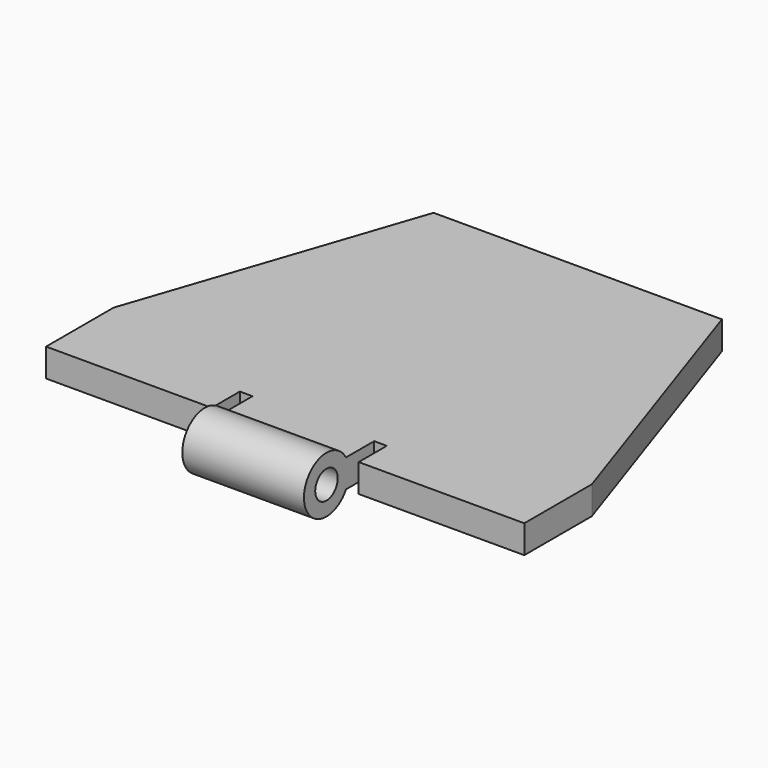
from build123d import *

# Parameters (mm, degrees)
F1_DEPTH      = 2
F2_R          = 2
F2_R_2        = 1
F3_DEPTH      = 4.325
F3_DEPTH_BACK = 4.325
F4_W          = 0.9
F4_H          = 2.5
F5_DEPTH      = 3.00062


with BuildPart() as f1:
    # F0 (on Top) → F1 (new body)
    with BuildSketch(Plane.XY):
        Polygon((0, 18.958714), (17, 18.958714), (17, 24.958714), (10.25, 44.958714), (0, 44.958714), (-10.25, 44.958714), (-17, 24.958714), (-17, 18.958714), align=None)
    extrude(amount=F1_DEPTH)

    # F2 (on Right) → F3 (join, two sides)
    with BuildSketch(Plane.YZ) as f3_sk:
        with Locations((17.221542, 1.00038)):
            Circle(F2_R)
        with Locations((17.221542, 1.00038)):
            Circle(F2_R_2, mode=Mode.SUBTRACT)
    extrude(amount=F3_DEPTH)
    extrude(f3_sk.sketch, amount=-F3_DEPTH_BACK)

    # F4 (on face) → F5 (cut, through all)
    with BuildSketch(Plane.XY.offset(2)):
        with Locations((-4.775, 20.208714)):
            Rectangle(F4_W, F4_H)
        with Locations((4.775, 20.208714)):
            Rectangle(F4_W, F4_H)
    extrude(amount=-F5_DEPTH, mode=Mode.SUBTRACT)


solid = f1.part
